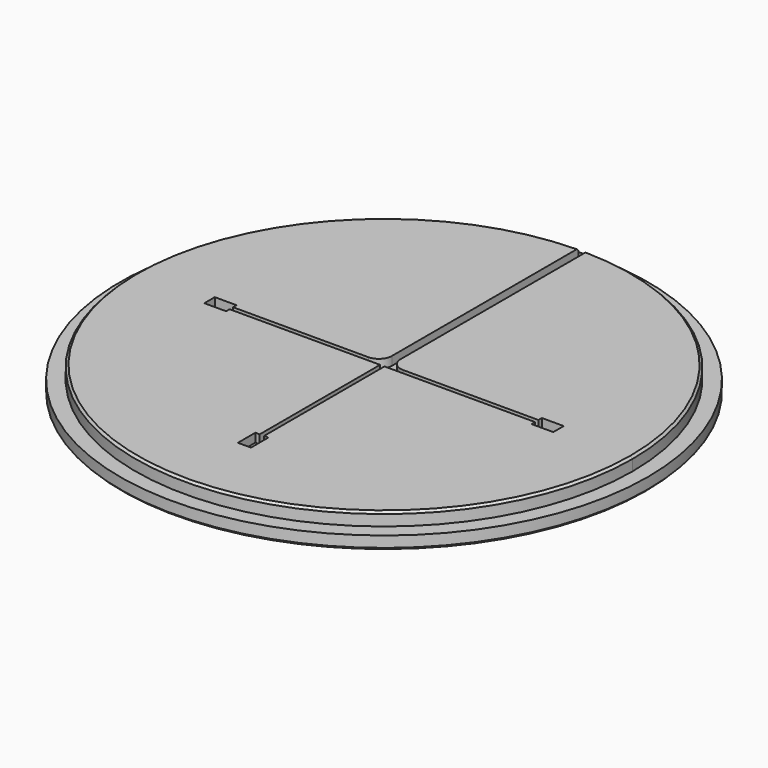
from build123d import *

# Parameters (mm, degrees)
SKETCH_R           = 57
PAD_DEPTH          = 3
SKETCH001_R        = 60.5
PAD001_DEPTH       = 3
CHAMFER_SIZE       = 0.5
CHAMFER001_SIZE    = 0.5
POCKET_DEPTH       = 2
POLARPATTERN_COUNT = 3
POLARPATTERN_ANGLE = 180
SKETCH003_W        = 2
SKETCH003_H        = 60.5
POCKET001_DEPTH    = 2
SKETCH004_W        = 2
SKETCH004_H        = 5
POCKET002_DEPTH    = 2
FILLET_R           = 3
FILLET001_R        = 1.5


with BuildPart() as part:
    # Sketch → Pad (new body)
    with BuildSketch(Plane.XY):
        Circle(SKETCH_R)
    extrude(amount=PAD_DEPTH)

    # Sketch001 (on Face2 of Pad) → Pad001 (join)
    with BuildSketch(Plane(origin=(0, 0, 0), x_dir=(1, 0, 0), z_dir=(0, 0, -1))):
        Circle(SKETCH001_R)
    extrude(amount=PAD001_DEPTH)

    # Chamfer
    chamfer_edges = [part.edges().sort_by_distance(p)[0] for p in [
        (-57, 0, 3),
    ]]
    chamfer(chamfer_edges, length=CHAMFER_SIZE)

    # Chamfer001
    chamfer001_edges = [part.edges().sort_by_distance(p)[0] for p in [
        (-60.5, 0, -3),
    ]]
    chamfer(chamfer001_edges, length=CHAMFER001_SIZE)

    # Sketch002 (on Face7 of Chamfer001) → Pocket (cut)
    with BuildSketch(Plane.XY.offset(3)):
        Polygon((-40, -1.5), (-40, 1.5), (-35, 1.5), (-35, 0.5), (0, 0.5), (0, -0.5), (-35, -0.5), (-35, -1.5), align=None)
    pocket = extrude(amount=-POCKET_DEPTH, mode=Mode.SUBTRACT)

    # PolarPattern: Pocket ×3 about axis
    polarpattern_axis = Axis((0, 0, 3), (0, 0, 1))
    for i in range(1, POLARPATTERN_COUNT):
        add(pocket.rotate(polarpattern_axis, i * POLARPATTERN_ANGLE / (POLARPATTERN_COUNT - 1)), mode=Mode.SUBTRACT)

    # Sketch003 (on Face7 of PolarPattern) → Pocket001 (cut)
    with BuildSketch(Plane.XY.offset(3)):
        with Locations((0, 30.25)):
            Rectangle(SKETCH003_W, SKETCH003_H)
    extrude(amount=-POCKET001_DEPTH, mode=Mode.SUBTRACT)

    # Sketch004 (on Face8 of Pocket001) → Pocket002 (cut)
    with BuildSketch(Plane.XY.offset(1)):
        with Locations((0, 58)):
            Rectangle(SKETCH004_W, SKETCH004_H)
    extrude(amount=-POCKET002_DEPTH, mode=Mode.SUBTRACT)

    # Fillet
    fillet_edges = [part.edges().sort_by_distance(p)[0] for p in [
        (1, 0.5, 2),
        (-1, 0.5, 2),
    ]]
    fillet(fillet_edges, radius=FILLET_R)

    # Fillet001
    fillet001_edges = [part.edges().sort_by_distance(p)[0] for p in [
        (0, 55.5, 1),
    ]]
    fillet(fillet001_edges, radius=FILLET001_R)


solid = part.part
